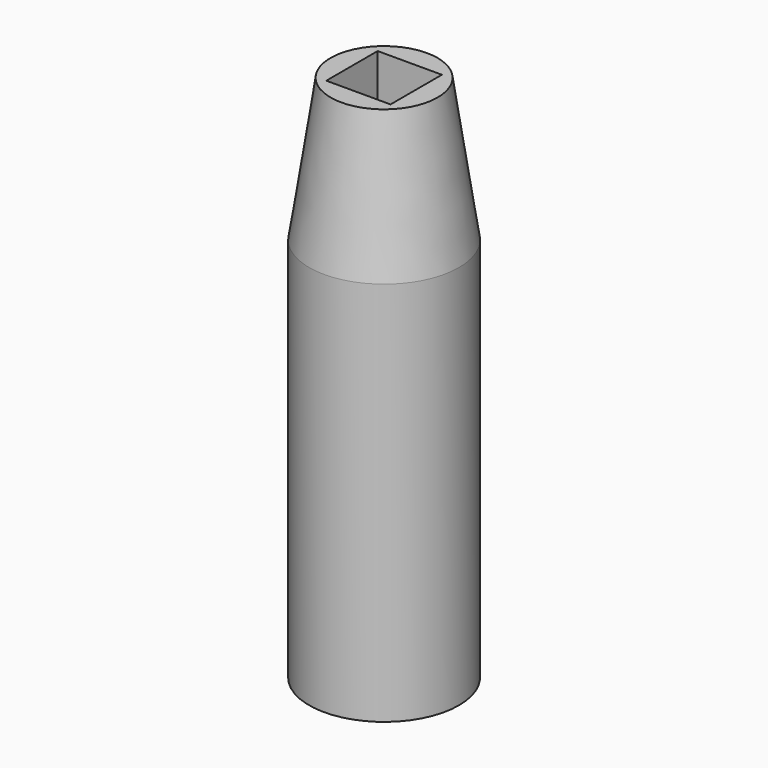
from build123d import *

# Parameters (mm, degrees)
F0_R      = 10.5
F1_DEPTH  = 54
F3_R      = 7.5
F1_FACE_R = 10.5
F5_W      = 9
F5_H      = 9
F6_DEPTH  = 16


with BuildPart() as f1:
    # F0 (on Top) → F1 (new body)
    with BuildSketch(Plane.XY):
        Circle(F0_R)
    extrude(amount=F1_DEPTH)

    # F3 (on offset) → F4 section 0
    with BuildSketch(Plane.XY.offset(74)):
        Circle(F3_R)
    # F1_face (on face) → F4 section 1
    with BuildSketch(Plane.XY.offset(54)):
        Circle(F1_FACE_R)
    loft()

    # F5 (on face) → F6 (cut)
    with BuildSketch(Plane.XY.offset(74)):
        Rectangle(F5_W, F5_H)
    extrude(amount=-F6_DEPTH, mode=Mode.SUBTRACT)


solid = f1.part
